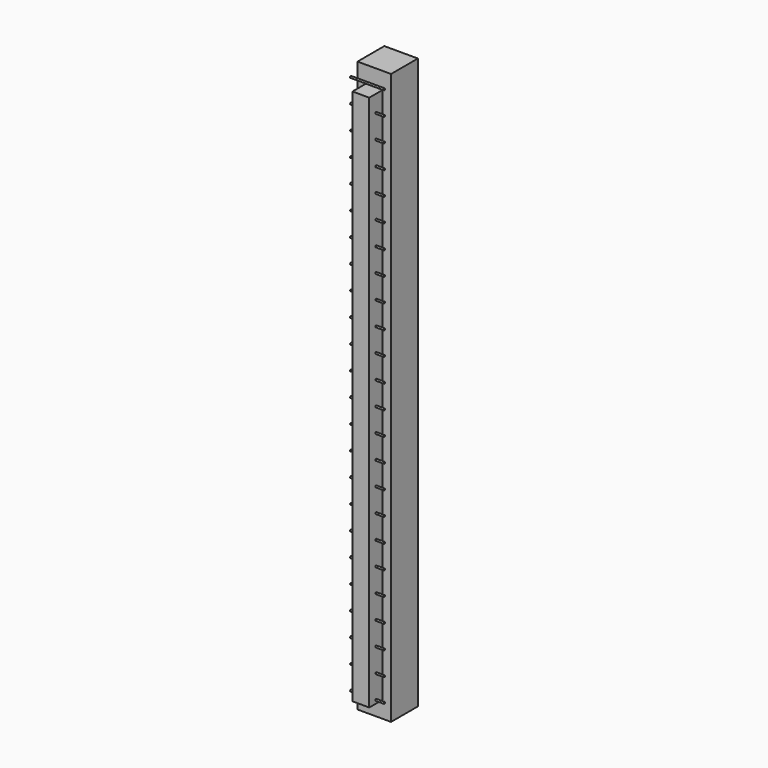
from build123d import *

# Parameters (mm, degrees)
F0_W          = 100
F0_H          = 1700
F1_DEPTH      = 100
F2_W          = 50
F2_H          = 1600
F3_DEPTH      = 50
F4_R          = 2.5
F5_DEPTH      = 25
F5_DEPTH_BACK = 75


with BuildPart() as f1:
    # F0 (on Front) → F1 (new body)
    with BuildSketch(Plane.XZ):
        Rectangle(F0_W, F0_H)
    extrude(amount=F1_DEPTH)

    # F2 (on face) → F3 (join)
    with BuildSketch(Plane.XZ.offset(100)):
        Rectangle(F2_W, F2_H)
    extrude(amount=F3_DEPTH)

    # F4 (on face) → F5 (join, two sides)
    with BuildSketch(Plane(origin=(-25, 0, 0), x_dir=(0, -1, 0), z_dir=(-1, 0, 0))) as f5_sk:
        with Locations((125, -790)):
            Circle(F4_R)
        with Locations((125, -720)):
            Circle(F4_R)
        with Locations((125, -650)):
            Circle(F4_R)
        with Locations((125, -580)):
            Circle(F4_R)
        with Locations((125, -510)):
            Circle(F4_R)
        with Locations((125, -440)):
            Circle(F4_R)
        with Locations((125, -370)):
            Circle(F4_R)
        with Locations((125, -300)):
            Circle(F4_R)
        with Locations((125, -230)):
            Circle(F4_R)
        with Locations((125, -160)):
            Circle(F4_R)
        with Locations((125, -90)):
            Circle(F4_R)
        with Locations((125, -20)):
            Circle(F4_R)
        with Locations((125, 50)):
            Circle(F4_R)
        with Locations((125, 120)):
            Circle(F4_R)
        with Locations((125, 190)):
            Circle(F4_R)
        with Locations((125, 260)):
            Circle(F4_R)
        with Locations((125, 330)):
            Circle(F4_R)
        with Locations((125, 400)):
            Circle(F4_R)
        with Locations((125, 470)):
            Circle(F4_R)
        with Locations((125, 540)):
            Circle(F4_R)
        with Locations((125, 610)):
            Circle(F4_R)
        with Locations((125, 680)):
            Circle(F4_R)
        with Locations((125, 750)):
            Circle(F4_R)
        with Locations((125, 820)):
            Circle(F4_R)
    extrude(amount=F5_DEPTH)
    extrude(f5_sk.sketch, amount=-F5_DEPTH_BACK)


solid = f1.part
